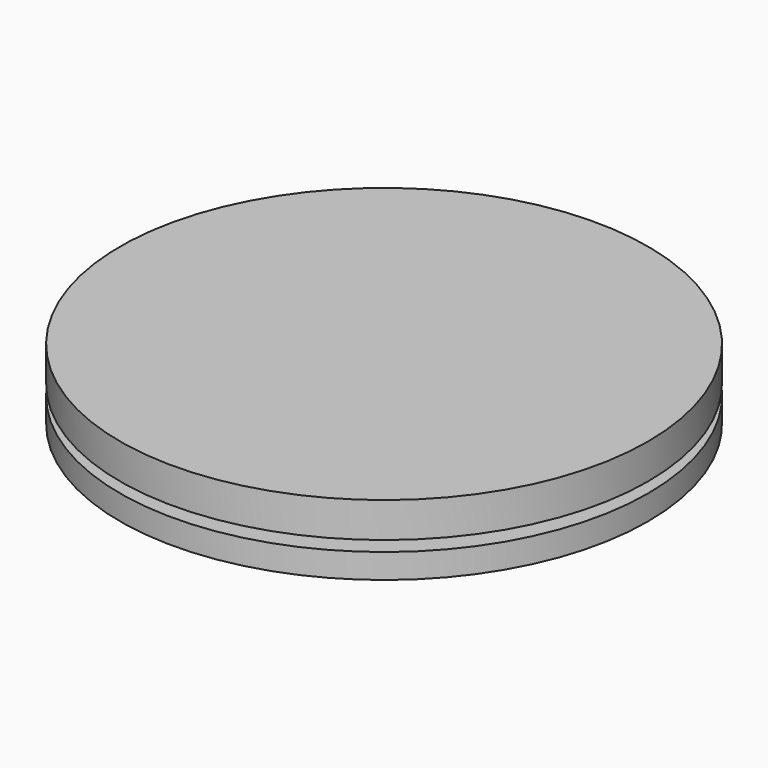
from build123d import *

# Parameters (mm, degrees)
F0_R     = 75
F0_R_2   = 26
F1_DEPTH = 7
F2_R     = 20
F3_DEPTH = 10
F4_R     = 75
F4_R_2   = 20
F5_DEPTH = 10


with BuildPart() as f1:
    # F0 (on Top) → F1 (new body)
    with BuildSketch(Plane.XY):
        Circle(F0_R)
        Circle(F0_R_2, mode=Mode.SUBTRACT)
    extrude(amount=F1_DEPTH)


with BuildPart() as f3:
    # F2 (on Top) → F3 (new body)
    with BuildSketch(Plane.XY):
        Circle(F2_R)
    extrude(amount=F3_DEPTH)

    # F4 (on face) → F5 (join)
    with BuildSketch(Plane.XY.offset(10)):
        Circle(F4_R)
        Circle(F4_R_2, mode=Mode.SUBTRACT)
        Circle(F4_R_2)
    extrude(amount=F5_DEPTH)


solid = Compound([f1.part, f3.part])
